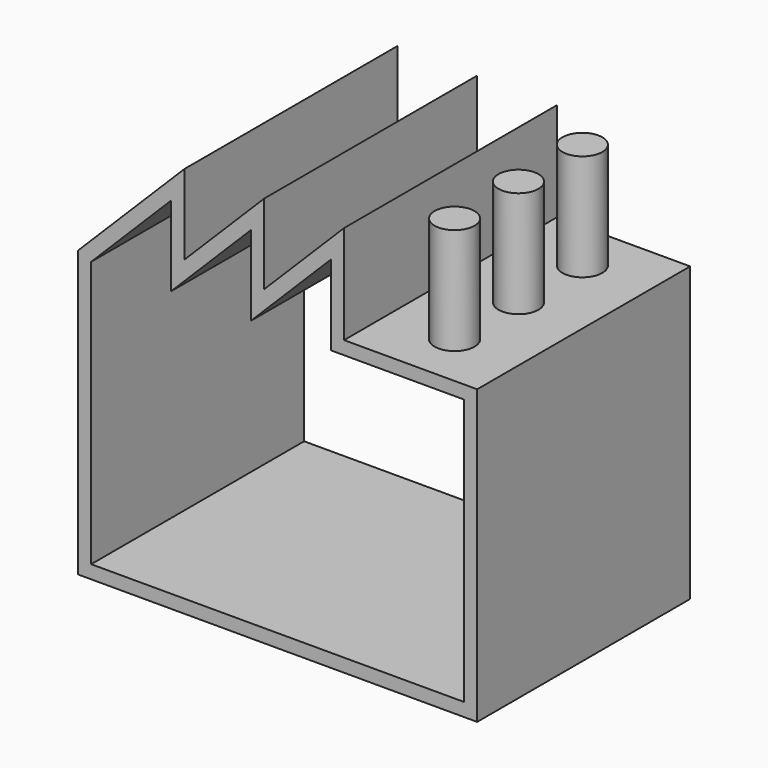
from build123d import *

# Parameters (mm, degrees)
F2_DEPTH      = 31.75
F2_DEPTH_BACK = 31.75
F3_DEPTH      = 64.516
F3_DEPTH_BACK = 80.518
F4_R          = 4.7625
F5_DEPTH      = 25.4


with BuildPart() as f2:
    # F1 (on Front) → F2 (new body, two sides)
    with BuildSketch(Plane.XZ) as f2_sk:
        Polygon((47.625, 34.925), (15.875, 34.925), (15.875, 58.4651280605), (-3.175, 39.4151280605), (-3.175, 58.4651280605), (-22.225, 39.4151280605), (-22.225, 58.4651280605), (-47.625, 33.0651280605), (-47.625, -34.925), (47.625, -34.925), align=None)
    extrude(amount=F2_DEPTH)
    extrude(f2_sk.sketch, amount=-F2_DEPTH_BACK)

    # F0 (on Front) → F3 (cut, two sides)
    with BuildSketch(Plane.XZ) as f3_sk:
        Polygon((-44.45, -31.75), (44.45, -31.75), (44.45, 31.75), (12.7, 31.75), (12.7, 50.8), (-6.35, 31.75), (-6.35, 50.8), (-25.4, 31.75), (-25.4, 50.8), (-44.45, 31.75), align=None)
    extrude(amount=-F3_DEPTH, mode=Mode.SUBTRACT)
    extrude(f3_sk.sketch, amount=F3_DEPTH_BACK, mode=Mode.SUBTRACT)

    # F4 (on face) → F5 (join)
    with BuildSketch(Plane.XY.offset(34.925)):
        with Locations((31.75, 19.461568445)):
            Circle(F4_R)
        with Locations((31.75, 0.411568445)):
            Circle(F4_R)
        with Locations((31.75, -18.638431555)):
            Circle(F4_R)
    extrude(amount=F5_DEPTH)


solid = f2.part
